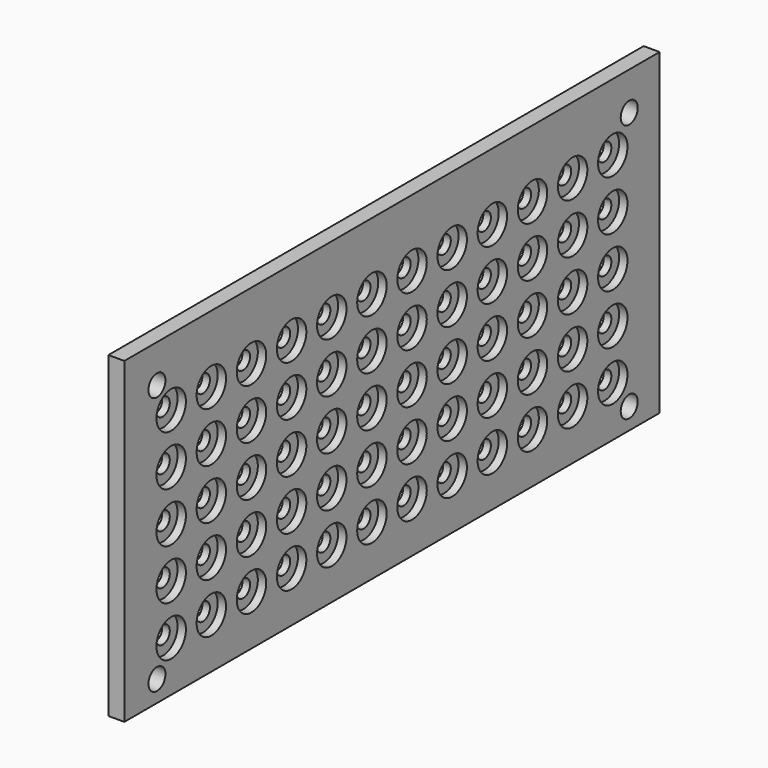
from build123d import *

# Parameters (mm, degrees)
F0_W     = 200
F0_H     = 95
F0_R     = 3.175
F1_DEPTH = 4.77
F2_R     = 2.6
F3_DEPTH = 4.77
F4_R     = 5.5
F5_DEPTH = 2.5


with BuildPart() as f1:
    # F0 (on Right) → F1 (new body)
    with BuildSketch(Plane.YZ):
        with Locations((0, 2.5)):
            Rectangle(F0_W, F0_H)
        with Locations((-87.81688, -38.65)):
            Circle(F0_R, mode=Mode.SUBTRACT)
        with Locations((88.65, -38.65)):
            Circle(F0_R, mode=Mode.SUBTRACT)
        with Locations((-87.81688, 38.65)):
            Circle(F0_R, mode=Mode.SUBTRACT)
        with Locations((88.65, 38.65)):
            Circle(F0_R, mode=Mode.SUBTRACT)
    extrude(amount=F1_DEPTH)

    # F2 (on face) → F3 (cut, through all)
    with BuildSketch(Plane.YZ.offset(4.77)):
        with Locations((-82.5, 30)):
            Circle(F2_R)
        with Locations((-82.5, 15)):
            Circle(F2_R)
        with Locations((-82.5, 0)):
            Circle(F2_R)
        with Locations((-82.5, -15)):
            Circle(F2_R)
        with Locations((-67.5, 30)):
            Circle(F2_R)
        with Locations((-67.5, 15)):
            Circle(F2_R)
        with Locations((-67.5, 0)):
            Circle(F2_R)
        with Locations((-67.5, -15)):
            Circle(F2_R)
        with Locations((-52.5, 30)):
            Circle(F2_R)
        with Locations((-52.5, 15)):
            Circle(F2_R)
        with Locations((-52.5, 0)):
            Circle(F2_R)
        with Locations((-52.5, -15)):
            Circle(F2_R)
        with Locations((-37.5, 30)):
            Circle(F2_R)
        with Locations((-37.5, 15)):
            Circle(F2_R)
        with Locations((-37.5, 0)):
            Circle(F2_R)
        with Locations((-37.5, -15)):
            Circle(F2_R)
        with Locations((-22.5, 30)):
            Circle(F2_R)
        with Locations((-22.5, 15)):
            Circle(F2_R)
        with Locations((-22.5, 0)):
            Circle(F2_R)
        with Locations((-22.5, -15)):
            Circle(F2_R)
        with Locations((-7.5, 30)):
            Circle(F2_R)
        with Locations((-7.5, 15)):
            Circle(F2_R)
        with Locations((-7.5, 0)):
            Circle(F2_R)
        with Locations((-7.5, -15)):
            Circle(F2_R)
        with Locations((7.5, 30)):
            Circle(F2_R)
        with Locations((7.5, 15)):
            Circle(F2_R)
        with Locations((7.5, 0)):
            Circle(F2_R)
        with Locations((7.5, -15)):
            Circle(F2_R)
        with Locations((22.5, 30)):
            Circle(F2_R)
        with Locations((22.5, 15)):
            Circle(F2_R)
        with Locations((22.5, 0)):
            Circle(F2_R)
        with Locations((22.5, -15)):
            Circle(F2_R)
        with Locations((37.5, 30)):
            Circle(F2_R)
        with Locations((37.5, 15)):
            Circle(F2_R)
        with Locations((37.5, 0)):
            Circle(F2_R)
        with Locations((37.5, -15)):
            Circle(F2_R)
        with Locations((52.5, 30)):
            Circle(F2_R)
        with Locations((52.5, 15)):
            Circle(F2_R)
        with Locations((52.5, 0)):
            Circle(F2_R)
        with Locations((52.5, -15)):
            Circle(F2_R)
        with Locations((67.5, 30)):
            Circle(F2_R)
        with Locations((67.5, 15)):
            Circle(F2_R)
        with Locations((67.5, 0)):
            Circle(F2_R)
        with Locations((67.5, -15)):
            Circle(F2_R)
        with Locations((82.5, 30)):
            Circle(F2_R)
        with Locations((82.5, 15)):
            Circle(F2_R)
        with Locations((82.5, 0)):
            Circle(F2_R)
        with Locations((82.5, -15)):
            Circle(F2_R)
        with Locations((-82.5, -30)):
            Circle(F2_R)
        with Locations((-67.5, -30)):
            Circle(F2_R)
        with Locations((-52.5, -30)):
            Circle(F2_R)
        with Locations((-37.5, -30)):
            Circle(F2_R)
        with Locations((-22.5, -30)):
            Circle(F2_R)
        with Locations((-7.5, -30)):
            Circle(F2_R)
        with Locations((7.5, -30)):
            Circle(F2_R)
        with Locations((22.5, -30)):
            Circle(F2_R)
        with Locations((37.5, -30)):
            Circle(F2_R)
        with Locations((52.5, -30)):
            Circle(F2_R)
        with Locations((67.5, -30)):
            Circle(F2_R)
        with Locations((82.5, -30)):
            Circle(F2_R)
    extrude(amount=-F3_DEPTH, mode=Mode.SUBTRACT)

    # F4 (on face) → F5 (cut)
    with BuildSketch(Plane.YZ.offset(4.77)):
        with Locations((-82.5, 30)):
            Circle(F4_R)
        with Locations((-82.5, 15)):
            Circle(F4_R)
        with Locations((-82.5, 0)):
            Circle(F4_R)
        with Locations((-82.5, -15)):
            Circle(F4_R)
        with Locations((-67.5, 30)):
            Circle(F4_R)
        with Locations((-67.5, 15)):
            Circle(F4_R)
        with Locations((-67.5, 0)):
            Circle(F4_R)
        with Locations((-67.5, -15)):
            Circle(F4_R)
        with Locations((-52.5, 30)):
            Circle(F4_R)
        with Locations((-52.5, 15)):
            Circle(F4_R)
        with Locations((-52.5, 0)):
            Circle(F4_R)
        with Locations((-52.5, -15)):
            Circle(F4_R)
        with Locations((-37.5, 30)):
            Circle(F4_R)
        with Locations((-37.5, 15)):
            Circle(F4_R)
        with Locations((-37.5, 0)):
            Circle(F4_R)
        with Locations((-37.5, -15)):
            Circle(F4_R)
        with Locations((-22.5, 30)):
            Circle(F4_R)
        with Locations((-22.5, 15)):
            Circle(F4_R)
        with Locations((-22.5, 0)):
            Circle(F4_R)
        with Locations((-22.5, -15)):
            Circle(F4_R)
        with Locations((-7.5, 30)):
            Circle(F4_R)
        with Locations((-7.5, 15)):
            Circle(F4_R)
        with Locations((-7.5, 0)):
            Circle(F4_R)
        with Locations((-7.5, -15)):
            Circle(F4_R)
        with Locations((7.5, 30)):
            Circle(F4_R)
        with Locations((7.5, 15)):
            Circle(F4_R)
        with Locations((7.5, 0)):
            Circle(F4_R)
        with Locations((7.5, -15)):
            Circle(F4_R)
        with Locations((22.5, 30)):
            Circle(F4_R)
        with Locations((22.5, 15)):
            Circle(F4_R)
        with Locations((22.5, 0)):
            Circle(F4_R)
        with Locations((22.5, -15)):
            Circle(F4_R)
        with Locations((37.5, 30)):
            Circle(F4_R)
        with Locations((37.5, 15)):
            Circle(F4_R)
        with Locations((37.5, 0)):
            Circle(F4_R)
        with Locations((37.5, -15)):
            Circle(F4_R)
        with Locations((-82.5, -30)):
            Circle(F4_R)
        with Locations((-67.5, -30)):
            Circle(F4_R)
        with Locations((-52.5, -30)):
            Circle(F4_R)
        with Locations((-37.5, -30)):
            Circle(F4_R)
        with Locations((-22.5, -30)):
            Circle(F4_R)
        with Locations((-7.5, -30)):
            Circle(F4_R)
        with Locations((7.5, -30)):
            Circle(F4_R)
        with Locations((22.5, -30)):
            Circle(F4_R)
        with Locations((37.5, -30)):
            Circle(F4_R)
        with Locations((52.5, 30)):
            Circle(F4_R)
        with Locations((52.5, 15)):
            Circle(F4_R)
        with Locations((52.5, 0)):
            Circle(F4_R)
        with Locations((52.5, -15)):
            Circle(F4_R)
        with Locations((52.5, -30)):
            Circle(F4_R)
        with Locations((67.5, 30)):
            Circle(F4_R)
        with Locations((67.5, 15)):
            Circle(F4_R)
        with Locations((67.5, 0)):
            Circle(F4_R)
        with Locations((67.5, -15)):
            Circle(F4_R)
        with Locations((67.5, -30)):
            Circle(F4_R)
        with Locations((82.5, 30)):
            Circle(F4_R)
        with Locations((82.5, 15)):
            Circle(F4_R)
        with Locations((82.5, 0)):
            Circle(F4_R)
        with Locations((82.5, -15)):
            Circle(F4_R)
        with Locations((82.5, -30)):
            Circle(F4_R)
    extrude(amount=-F5_DEPTH, mode=Mode.SUBTRACT)


solid = f1.part
